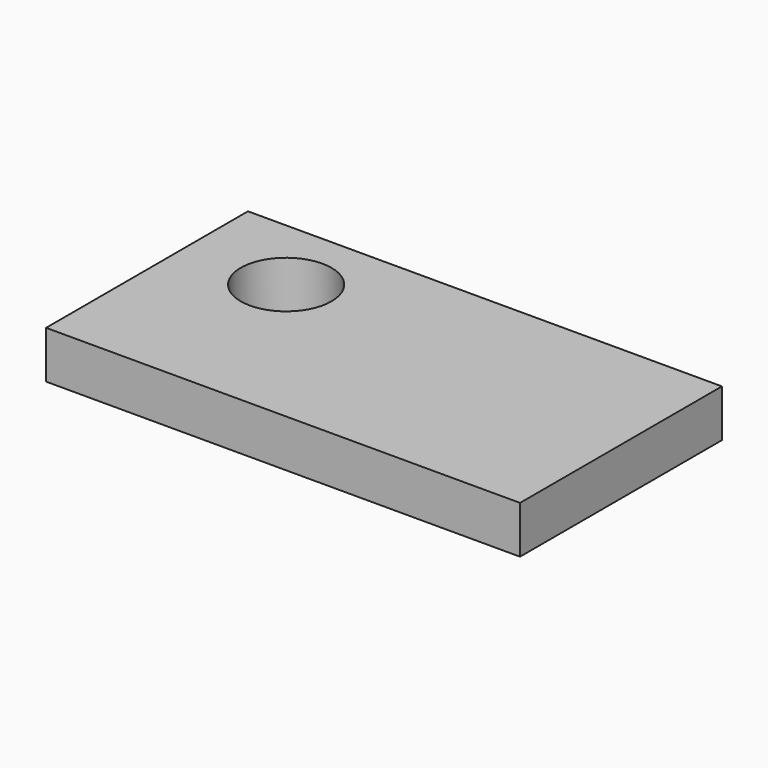
from build123d import *

# Parameters (mm, degrees)
F0_W     = 2540
F0_H     = 1352.439214
F1_DEPTH = 127
F2_R     = 243.256461
F3_DEPTH = 254.001


with BuildPart() as f1:
    # F0 (on Top) → F1 (new body, symmetric)
    with BuildSketch(Plane.XY):
        Rectangle(F0_W, F0_H)
    extrude(amount=F1_DEPTH, both=True)

    # F2 (on face) → F3 (cut, through all)
    with BuildSketch(Plane.XY.offset(127)):
        with Locations((-730.394423, 257.364362)):
            Circle(F2_R)
    extrude(amount=-F3_DEPTH, mode=Mode.SUBTRACT)


solid = f1.part
